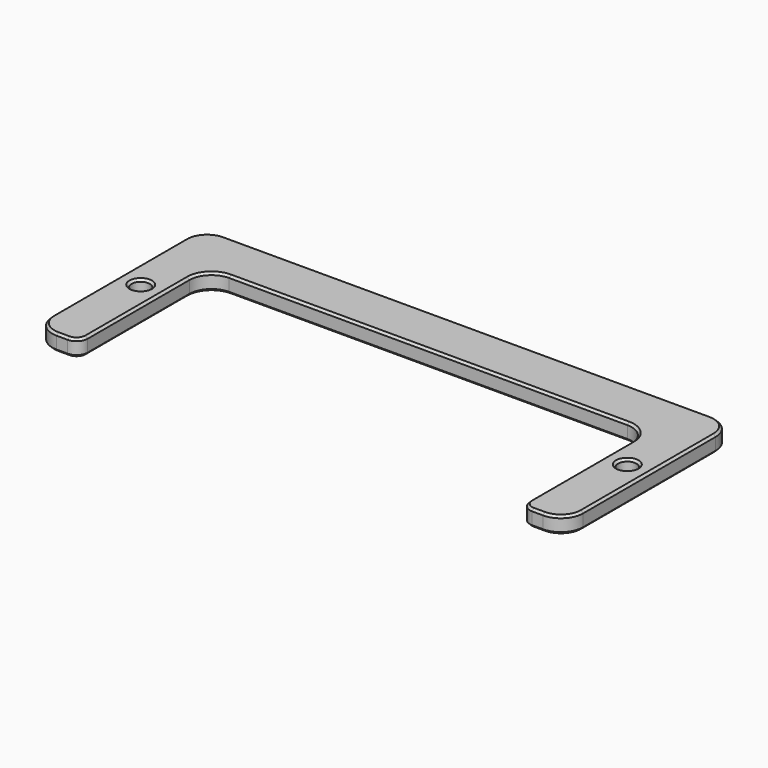
from build123d import *

# Parameters (mm, degrees)
PAD_DEPTH    = 3
SKETCH004_R  = 1.65
POCKET_DEPTH = 3.001
FILLET_R     = 4
FILLET001_R  = 2
CHAMFER_SIZE = 0.4


with BuildPart() as part:
    # Sketch → Pad (new body)
    with BuildSketch(Plane.XY):
        Polygon((-48, -19), (-40, -19), (-40, 10), (40, 10), (40, -19), (48, -19), (48, 19), (-48, 19), align=None)
    extrude(amount=PAD_DEPTH)

    # Sketch004 (on Face10 of Pad) → Pocket (cut, through all)
    with BuildSketch(Plane.XY.offset(3)):
        with Locations((-44, 0)):
            Circle(SKETCH004_R)
        with Locations((44, 0)):
            Circle(SKETCH004_R)
    extrude(amount=-POCKET_DEPTH, mode=Mode.SUBTRACT)

    # Fillet
    fillet_edges = [part.edges().sort_by_distance(p)[0] for p in [
        (-40, 10, 1.5),
        (40, 10, 1.5),
        (48, -19, 1.5),
        (-48, -19, 1.5),
        (-48, 19, 1.5),
        (48, 19, 1.5),
    ]]
    fillet(fillet_edges, radius=FILLET_R)

    # Fillet001
    fillet001_edges = [part.edges().sort_by_distance(p)[0] for p in [
        (40, -19, 1.5),
        (-40, -19, 1.5),
    ]]
    fillet(fillet001_edges, radius=FILLET001_R)

    # Chamfer
    chamfer_edges = [part.edges().sort_by_distance(p)[0] for p in [
        (-43, -19, 3),
        (-40.585786, -18.414214, 3),
        (-46.828427, -17.828427, 3),
        (-40, -5.5, 3),
        (-48, 0, 3),
        (-38.828427, 8.828427, 3),
        (-46.828427, 17.828427, 3),
        (0, 10, 3),
        (0, 19, 3),
        (38.828427, 8.828427, 3),
        (46.828427, 17.828427, 3),
        (40, -5.5, 3),
        (48, 0, 3),
        (40.585786, -18.414214, 3),
        (46.828427, -17.828427, 3),
        (43, -19, 3),
        (-45.65, 0, 3),
        (42.35, 0, 3),
        (-43, -19, 0),
        (-40.585786, -18.414214, 0),
        (-46.828427, -17.828427, 0),
        (-40, -5.5, 0),
        (-48, 0, 0),
        (-38.828427, 8.828427, 0),
        (-46.828427, 17.828427, 0),
        (0, 10, 0),
        (0, 19, 0),
        (38.828427, 8.828427, 0),
        (46.828427, 17.828427, 0),
        (40, -5.5, 0),
        (48, 0, 0),
        (40.585786, -18.414214, 0),
        (46.828427, -17.828427, 0),
        (43, -19, 0),
        (-45.65, 0, 0),
        (42.35, 0, 0),
    ]]
    chamfer(chamfer_edges, length=CHAMFER_SIZE)


solid = part.part
